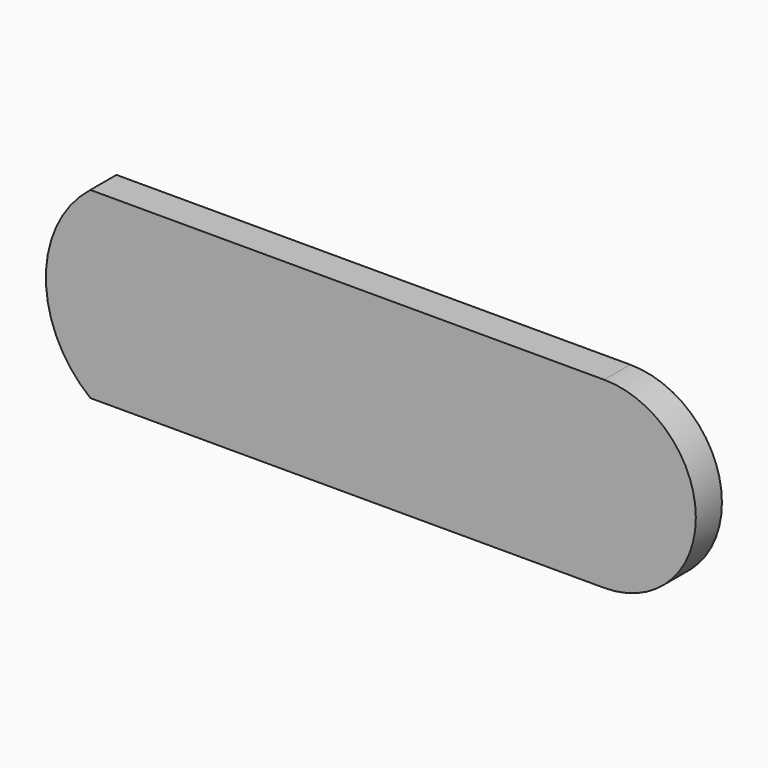
from build123d import *

# Parameters (mm, degrees)
F0_W     = 84.031232
F0_H     = 29.968129
F1_DEPTH = 5.334


with BuildPart() as f1:
    # F0 (on Front) → F1 (new body)
    with BuildSketch(Plane.XZ):
        with BuildLine():
            ThreePointArc((-40.057898, 29.968129), (-47.336571, 14.984065), (-40.057898, 0))
            Line((-40.057898, 0), (-40.057898, 29.968129))
        make_face()
        with BuildLine():
            Line((43.973334, 29.968129), (43.973334, 0))
            ThreePointArc((43.973334, 0), (58.957399, 14.984065), (43.973334, 29.968129))
        make_face()
        with Locations((1.957718, 14.984064)):
            Rectangle(F0_W, F0_H)
    extrude(amount=F1_DEPTH)


solid = f1.part
